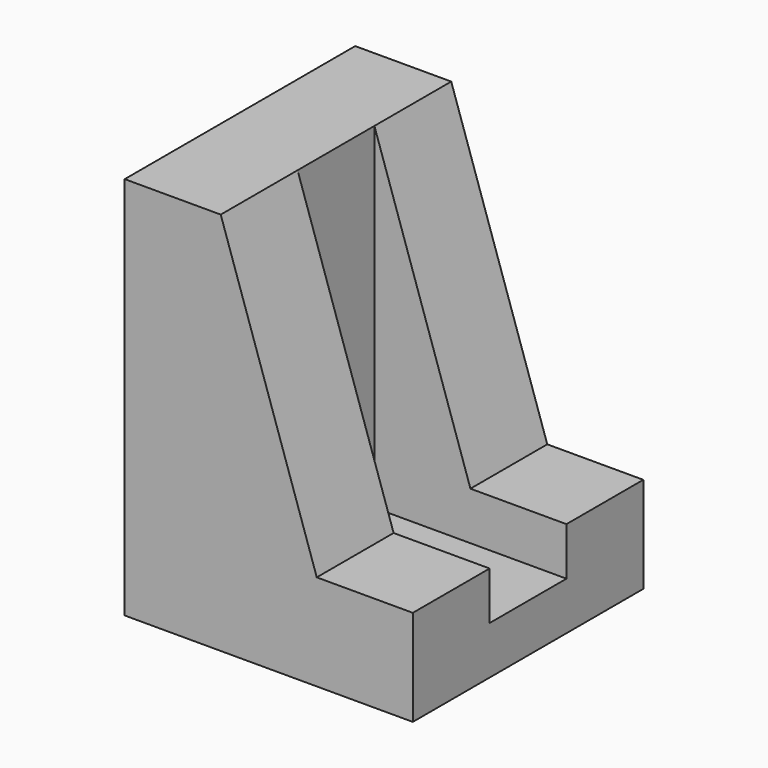
from build123d import *

# Parameters (mm, degrees)
F1_DEPTH = 30
F2_W     = 29.710985
F2_H     = 10
F3_DEPTH = 35


with BuildPart() as f1:
    # F0 (on Front) → F1 (new body)
    with BuildSketch(Plane.XZ):
        Polygon((0, 40), (0, 0), (30, 0), (30, 10), (20, 10), (10, 40), align=None)
    extrude(amount=F1_DEPTH)

    # F2 (on face) → F3 (cut)
    with BuildSketch(Plane.XY.offset(40)):
        with Locations((24.855493, -15)):
            Rectangle(F2_W, F2_H)
    extrude(amount=-F3_DEPTH, mode=Mode.SUBTRACT)


solid = f1.part
